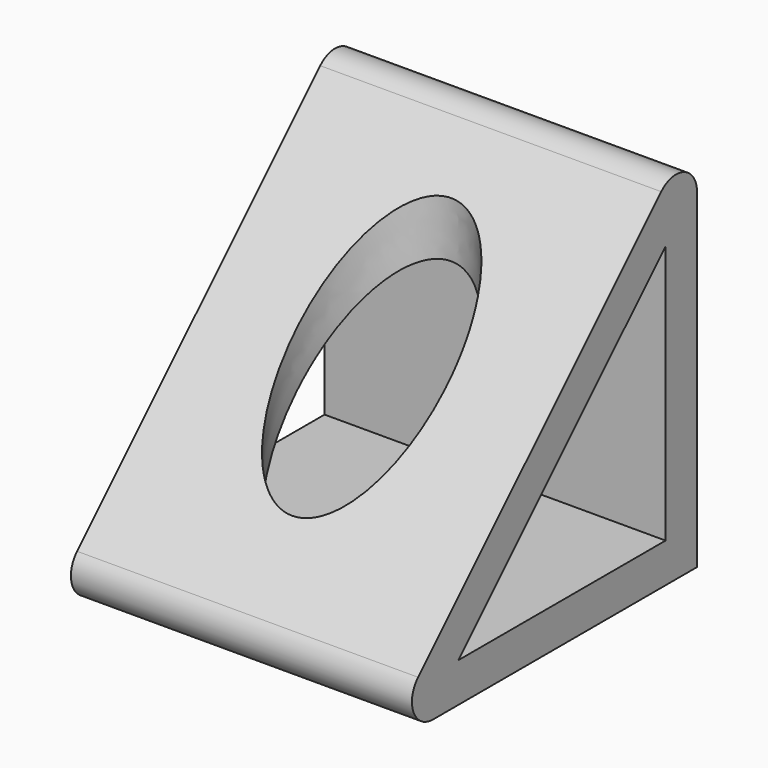
from build123d import *

# Parameters (mm, degrees)
F1_DEPTH = 33.02
F2_R     = 2.54
F4_DEPTH = 33.021
F7_DEPTH = 45.72


with BuildPart() as f1:
    # F0 (on Right) → F1 (new body)
    with BuildSketch(Plane.YZ):
        Polygon((-38.1, 0), (0, 0), (0, 38.1), align=None)
    extrude(amount=F1_DEPTH)

    # F2
    f2_edges = [f1.edges().sort_by_distance(p)[0] for p in [
        (16.51, 0, 38.1),
        (16.51, -38.1, 0),
    ]]
    fillet(f2_edges, radius=F2_R)

    # F3 (on face) → F4 (cut, through all)
    with BuildSketch(Plane.YZ.offset(33.02)):
        Polygon((-28.9018463274, 3.81), (-3.81, 3.81), (-3.81, 28.9018463274), align=None)
    extrude(amount=-F4_DEPTH, mode=Mode.SUBTRACT)

    # F6 (on offset) → F7 (cut)
    with BuildSketch(Plane.XY.offset(50.8)):
        with BuildLine():
            add(Edge.make_bspline(
                [(16.1240324378, -27.884254232), (28.7915867598, -27.884254232), (22.4578095988, -13.4440287948), (16.1240324378, 0.9961966425), (9.7902552768, -13.4440287948), (3.4564781158, -27.884254232), (16.1240324378, -27.884254232)],
                knots=[0, 0, 0, 2.0943951024, 2.0943951024, 4.1887902048, 4.1887902048, 6.2831853072, 6.2831853072, 6.2831853072], degree=2, weights=[1, 0.5, 1, 0.5, 1, 0.5, 1]))
        make_face()
    extrude(amount=-F7_DEPTH, mode=Mode.SUBTRACT)


solid = f1.part
